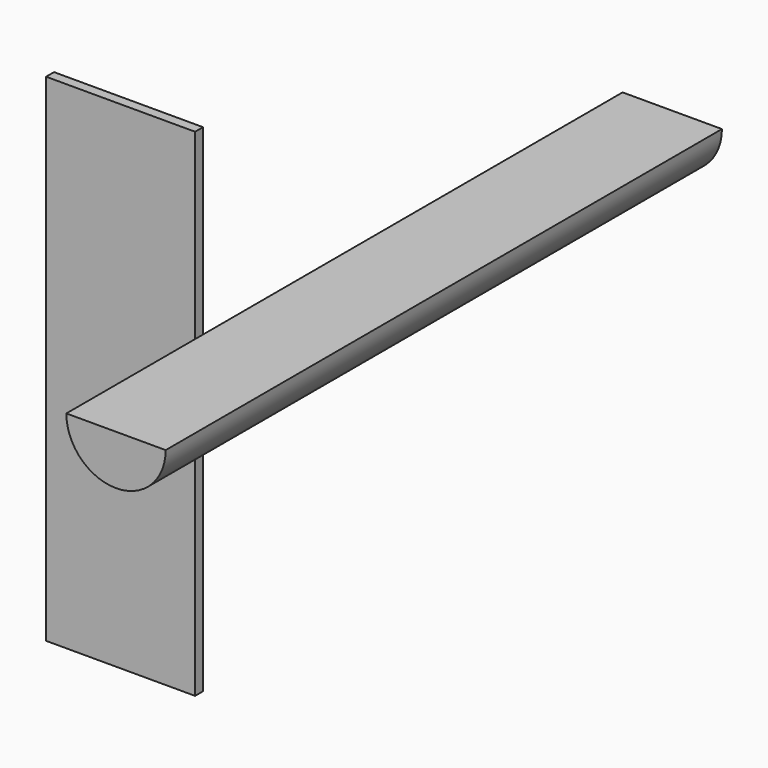
from build123d import *

# Parameters (mm, degrees)
F0_W     = 38.1
F0_H     = 127
F1_DEPTH = 2.54
F2_DEPTH = 177.8


with BuildPart() as f1:
    # F0 (on Front) → F1 (new body)
    with BuildSketch(Plane.XZ):
        with Locations((-36.520622, -67.905402)):
            Rectangle(F0_W, F0_H)
    extrude(amount=F1_DEPTH)


with BuildPart() as f2:
    # F0 (on Front) → F2 (new body)
    with BuildSketch(Plane.XZ):
        with BuildLine():
            Line((102.521002, 38.319644), (89.821002, 38.319644))
            ThreePointArc((89.821002, 38.319644), (102.521002, 25.619644), (115.221002, 38.319644))
            Line((115.221002, 38.319644), (102.521002, 38.319644))
        make_face()
    extrude(amount=F2_DEPTH)


solid = Compound([f1.part, f2.part])
